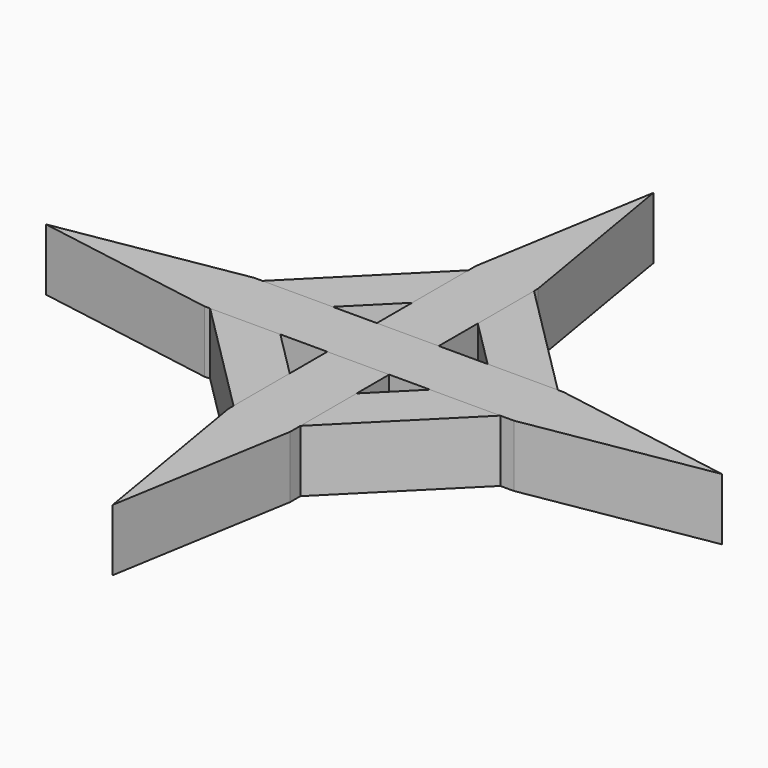
from build123d import *

# Parameters (mm, degrees)
F3_DEPTH = 10
F0_W     = 10
F0_H     = 50
F1_W     = 50
F1_H     = 10


with BuildPart() as f3:
    # F2 (on Top) → F3 (new body)
    with BuildSketch(Plane.XY):
        Polygon((-17.3595256848, -0.2285738221), (0.3757243976, 17.5066762604), (-2.1462140696, 20.0286147276), (0.3757243976, 22.5505531948), (-2.7740773908, 25.7003549833), (-24.3266920814, 4.1477402927), (-21.0700405853, 0.8910887966), (-19.7746144444, 2.1865149375), align=None)
    extrude(amount=F3_DEPTH)


with BuildPart() as f3b:
    # F2 (on Top) → F3, piece 2 (new body)
    with BuildSketch(Plane.XY):
        Polygon((0.3757243976, 22.5505531948), (2.8976628648, 20.0286147276), (0.3757243976, 17.5066762604), (17.2372120748, 0.6451885831), (18.778537244, 2.1865137523), (20.9477257901, 0.0173252062), (25.0781408766, 4.1477402927), (3.525526186, 25.7003549833), align=None)
    extrude(amount=F3_DEPTH)


with BuildPart() as f3c:
    # F2 (on Top) → F3, piece 3 (new body)
    with BuildSketch(Plane.XY):
        Polygon((19.4064006209, -1.523999963), (17.2372120748, 0.6451885831), (-0.4980380076, -17.0900614993), (1.7780002462, -19.3660997531), (-0.4980391928, -21.642139192), (2.8976628091, -25.037841194), (24.4502774997, -3.4852265034), (20.9477257901, 0.0173252062), align=None)
    extrude(amount=F3_DEPTH)


with BuildPart() as f3d:
    # F2 (on Top) → F3, piece 4 (new body)
    with BuildSketch(Plane.XY):
        Polygon((-0.4980380076, -17.0900614993), (-17.3595256848, -0.2285738221), (-18.6549518257, -1.523999963), (-21.0700405853, 0.8910887966), (-25.4463547001, -3.4852253182), (-3.8937400095, -25.0378400087), (-0.4980391928, -21.642139192), (-2.7740774466, -19.3661009383), align=None)
    extrude(amount=F3_DEPTH)


with BuildPart() as f3e:
    # F0 (on Top) → F3, piece 5 (new body)
    with BuildSketch(Plane.XY):
        Rectangle(F0_W, F0_H)
        Polygon((0, 54.5803989155), (-5, 25), (5, 25), align=None)
        Polygon((5, -25), (-5, -25), (0, -54.5670464635), align=None)
    extrude(amount=F3_DEPTH)


with BuildPart() as f3f:
    # F1 (on Top) → F3, piece 6 (new body)
    with BuildSketch(Plane.XY):
        Polygon((54.7289852769, 0), (25.1485863614, 5), (25.1485863614, -5), align=None)
        with Locations((0.1485863614, 0)):
            Rectangle(F1_W, F1_H)
        Polygon((-24.8514136386, -5), (-24.8514136386, 5), (-54.4184601021, 0), align=None)
    extrude(amount=F3_DEPTH)


solid = Compound([f3.part, f3b.part, f3c.part, f3d.part, f3e.part, f3f.part])
